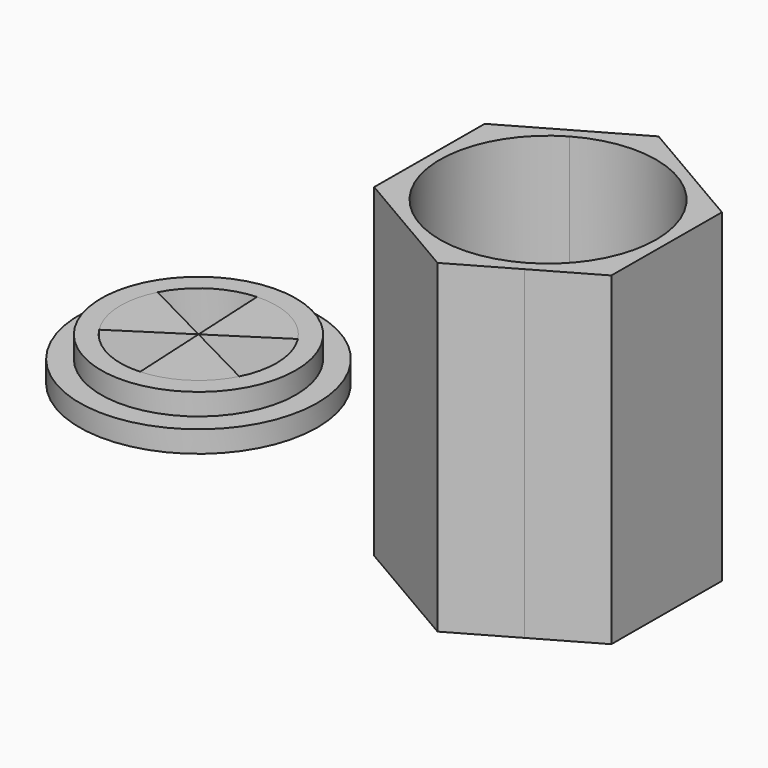
from build123d import *

# Parameters (mm, degrees)
F1_DEPTH = 38.1
F2_DEPTH = 5.08
F3_R     = 13.97
F3_R_2   = 11.43
F4_DEPTH = 2.54
F5_DEPTH = 5.08
F6_DEPTH = 5.08


with BuildPart() as f1:
    # F0 (on Top) → F1 (new body)
    with BuildSketch(Plane.XY):
        with BuildLine():
            Line((14.0059588347, 8.0029775992), (0.0721975106, 16.1310049548))
            Line((0.0721975106, 16.1310049548), (-6.9307819068, 12.1295161552))
            Line((-6.9307819068, 12.1295161552), (-6.3007108244, 11.0268328684))
            ThreePointArc((-6.3007108244, 11.0268328684), (6.3745969492, 10.9842848531), (12.7, 0))
            ThreePointArc((12.7, 0), (10.9842848531, -6.3745969492), (6.3007108244, -11.0268328684))
            Line((6.3007108244, -11.0268328684), (6.9307819068, -12.1295161552))
            Line((6.9307819068, -12.1295161552), (13.9337613242, -8.1280273557))
            Line((13.9337613242, -8.1280273557), (14.0059588347, 8.0029775992))
        make_face()
        with BuildLine():
            Line((-6.3007108244, 11.0268328684), (-6.9307819068, 12.1295161552))
            Line((-6.9307819068, 12.1295161552), (-13.9337613242, 8.1280273557))
            Line((-13.9337613242, 8.1280273557), (-14.0059588347, -8.0029775992))
            Line((-14.0059588347, -8.0029775992), (-0.0721975106, -16.1310049548))
            Line((-0.0721975106, -16.1310049548), (6.9307819068, -12.1295161552))
            Line((6.9307819068, -12.1295161552), (6.3007108244, -11.0268328684))
            ThreePointArc((6.3007108244, -11.0268328684), (-11.0268328684, -6.3007108244), (-6.3007108244, 11.0268328684))
        make_face()
    extrude(amount=F1_DEPTH)

    # F0 (on Top) → F2 (join)
    with BuildSketch(Plane.XY):
        with BuildLine():
            Line((6.3007108244, -11.0268328684), (-6.3007108244, 11.0268328684))
            ThreePointArc((-6.3007108244, 11.0268328684), (-11.0268328684, -6.3007108244), (6.3007108244, -11.0268328684))
        make_face()
        with BuildLine():
            ThreePointArc((12.7, 0), (6.3745969492, 10.9842848531), (-6.3007108244, 11.0268328684))
            Line((-6.3007108244, 11.0268328684), (6.3007108244, -11.0268328684))
            ThreePointArc((6.3007108244, -11.0268328684), (10.9842848531, -6.3745969492), (12.7, 0))
        make_face()
    extrude(amount=F2_DEPTH)


with BuildPart() as f4:
    # F3 (on Top) → F4 (new body)
    with BuildSketch(Plane.XY):
        with Locations((-47.9395352304, 8.6407475173)):
            Circle(F3_R)
        with Locations((-47.9395352304, 8.6407475173)):
            Circle(F3_R_2, mode=Mode.SUBTRACT)
    extrude(amount=F4_DEPTH)


with BuildPart() as f5:
    # F3 (on Top) → F5 (new body)
    with BuildSketch(Plane.XY):
        with BuildLine():
            Line((-47.9395352304, 8.6407475173), (-40.2509147157, 13.6106630009))
            ThreePointArc((-40.2509147157, 13.6106630009), (-43.7626192637, 16.787422811), (-48.3918169685, 17.7846190476))
            Line((-48.3918169685, 17.7846190476), (-47.9395352304, 8.6407475173))
        make_face()
    extrude(amount=F5_DEPTH)


with BuildPart() as f5b:
    # F3 (on Top) → F5, piece 2 (new body)
    with BuildSketch(Plane.XY):
        with BuildLine():
            Line((-55.6271489037, 3.6692747635), (-47.9395352304, 8.6407475173))
            Line((-47.9395352304, 8.6407475173), (-56.0819591317, 12.8259450449))
            ThreePointArc((-56.0819591317, 12.8259450449), (-57.083313173, 8.1865776496), (-55.6271489037, 3.6692747635))
        make_face()
    extrude(amount=F5_DEPTH)


with BuildPart() as f5c:
    # F3 (on Top) → F5, piece 3 (new body)
    with BuildSketch(Plane.XY):
        with BuildLine():
            ThreePointArc((-47.4739826156, -0.5024579433), (-42.9749911912, 0.9486575663), (-39.7996417205, 4.4506306955))
            Line((-39.7996417205, 4.4506306955), (-47.9395352304, 8.6407475173))
            Line((-47.9395352304, 8.6407475173), (-47.4739826156, -0.5024579433))
        make_face()
    extrude(amount=F5_DEPTH)


with BuildPart() as f6:
    # F3 (on Top) → F6 (new body)
    with BuildSketch(Plane.XY):
        with Locations((-47.9395352304, 8.6407475173)):
            Circle(F3_R_2)
        with BuildLine():
            ThreePointArc((-40.2509147157, 13.6106630009), (-39.1587421966, 11.2316197702), (-38.7844849666, 8.6407475173))
            ThreePointArc((-38.7844849666, 8.6407475173), (-39.0418928585, 6.485079279), (-39.7996417205, 4.4506306955))
            ThreePointArc((-39.7996417205, 4.4506306955), (-42.9749911912, 0.9486575663), (-47.4739826156, -0.5024579433))
            ThreePointArc((-47.4739826156, -0.5024579433), (-52.109712676, 0.4906208064), (-55.6271489037, 3.6692747635))
            ThreePointArc((-55.6271489037, 3.6692747635), (-57.083313173, 8.1865776496), (-56.0819591317, 12.8259450449))
            ThreePointArc((-56.0819591317, 12.8259450449), (-52.900820671, 16.3349396198), (-48.3918169685, 17.7846190476))
            ThreePointArc((-48.3918169685, 17.7846190476), (-43.7626192637, 16.787422811), (-40.2509147157, 13.6106630009))
        make_face(mode=Mode.SUBTRACT)
    extrude(amount=F6_DEPTH)


solid = Compound([f1.part, f4.part, f5.part, f5b.part, f5c.part, f6.part])
